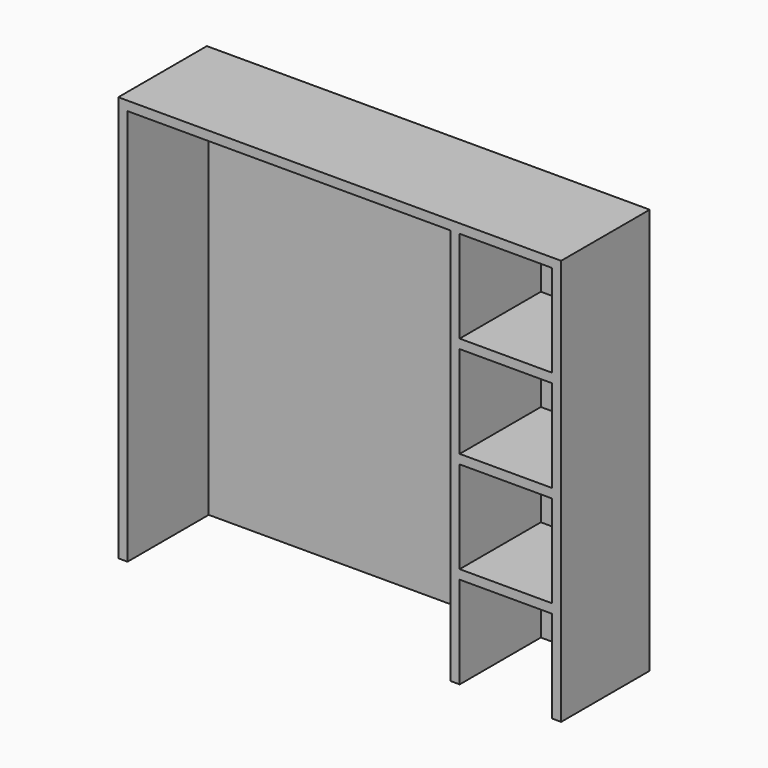
from build123d import *

# Parameters (mm, degrees)
BOX3575_W        = 1750
BOX3575_H        = 550
BOX3575_DEPTH    = 2150
BOX3574_W        = 500
BOX3574_H        = 550
BOX3574_DEPTH    = 500
ARRAY291_Z_COUNT = 4
ARRAY291_Z_PITCH = 550
BOX3573_W        = 2400
BOX3573_H        = 600
BOX3573_DEPTH    = 2200


with BuildPart() as box3575:
    # Box3575 → Box3575 (new body)
    with BuildSketch(Plane(origin=(7550, -3000, 0), x_dir=(1, 0, 0), z_dir=(0, 0, 1))):
        with Locations((875, 275)):
            Rectangle(BOX3575_W, BOX3575_H)
    extrude(amount=BOX3575_DEPTH)


with BuildPart() as array291:
    # Box3574 → Box3574 (new body)
    with BuildSketch(Plane(origin=(9350, -3000, 0), x_dir=(1, 0, 0), z_dir=(0, 0, 1))):
        with Locations((250, 275)):
            Rectangle(BOX3574_W, BOX3574_H)
    extrude(amount=BOX3574_DEPTH)

    # Array291 Z: Array291 ×4


with BuildPart() as array291_1:
    add(array291.part)
    with Locations(*[(0, 0, i * ARRAY291_Z_PITCH) for i in range(1, ARRAY291_Z_COUNT)]):
        add(array291.part)


with BuildPart() as cut009:
    # Box3573 → Box3573 (new body)
    with BuildSketch(Plane(origin=(7500, -3000, 0), x_dir=(1, 0, 0), z_dir=(0, 0, 1))):
        with Locations((1200, 300)):
            Rectangle(BOX3573_W, BOX3573_H)
    extrude(amount=BOX3573_DEPTH)

    # Cut008: cut Array291
    add(array291_1.part, mode=Mode.SUBTRACT)

    # Cut009: cut Box3575
    add(box3575.part, mode=Mode.SUBTRACT)


with BuildPart() as cut009_1:
    # Cut009 placement: moved
    add(cut009.part.moved(Location((-100, 0, 0))))


solid = cut009_1.part
